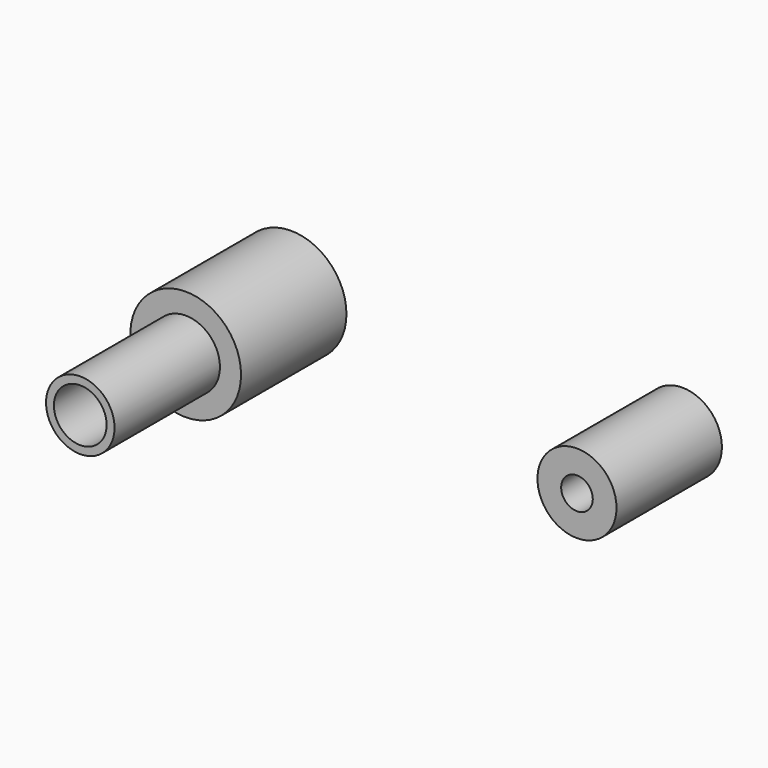
from build123d import *

# Parameters (mm, degrees)
F0_R     = 10.5
F0_R_2   = 6.5
F0_R_3   = 7.5
F0_R_4   = 3
F1_DEPTH = 25
F2_R     = 6.5
F2_R_2   = 5
F3_DEPTH = 25


with BuildPart() as f1:
    # F0 (on Front) → F1 (new body)
    with BuildSketch(Plane.XZ):
        with Locations((-8.681037, 14.438118)):
            Circle(F0_R)
        with Locations((-8.681037, 14.438118)):
            Circle(F0_R_2, mode=Mode.SUBTRACT)
        with Locations((65.562927, 15.384793)):
            Circle(F0_R_3)
        with Locations((65.562927, 15.384793)):
            Circle(F0_R_4, mode=Mode.SUBTRACT)
    extrude(amount=F1_DEPTH)


with BuildPart() as f3:
    # F2 (on face) → F3 (new body)
    with BuildSketch(Plane.XZ.offset(25)):
        with Locations((-8.681037, 14.438118)):
            Circle(F2_R)
        with Locations((-8.681037, 14.438118)):
            Circle(F2_R_2, mode=Mode.SUBTRACT)
    extrude(amount=F3_DEPTH)


solid = Compound([f1.part, f3.part])
